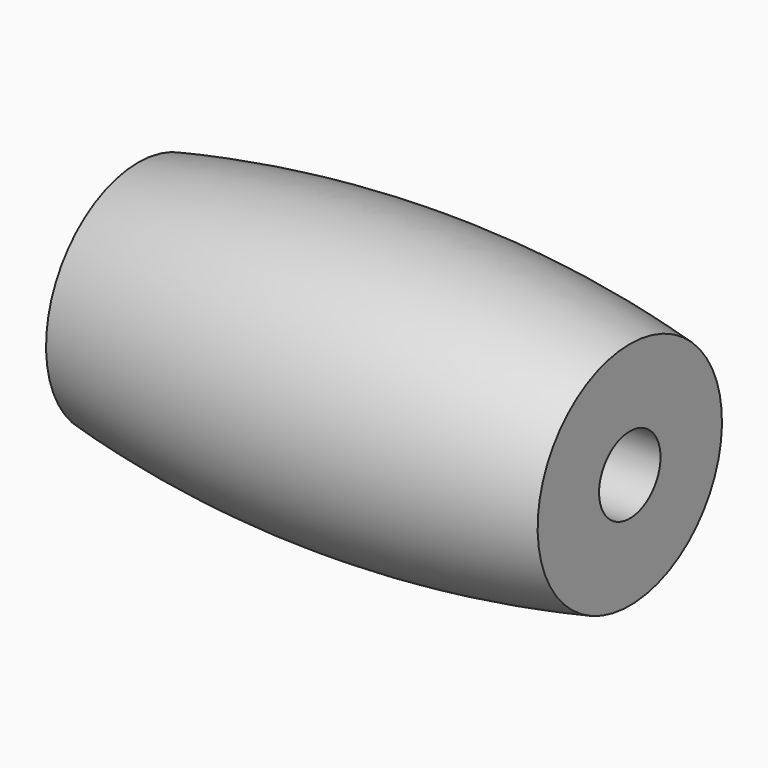
from build123d import *


with BuildPart() as f1:
    # F0 (on Front) → F1 (revolve)
    with BuildSketch(Plane.XZ):
        with BuildLine():
            ThreePointArc((10.16, 4.7625), (0, 5.844094), (-10.16, 4.7625))
            Line((-10.16, 4.7625), (-10.16, 1.5875))
            Line((-10.16, 1.5875), (10.16, 1.5875))
            Line((10.16, 1.5875), (10.16, 4.7625))
        make_face()
    revolve(axis=Axis((0, 0, 0), (1, 0, 0)))


solid = f1.part
